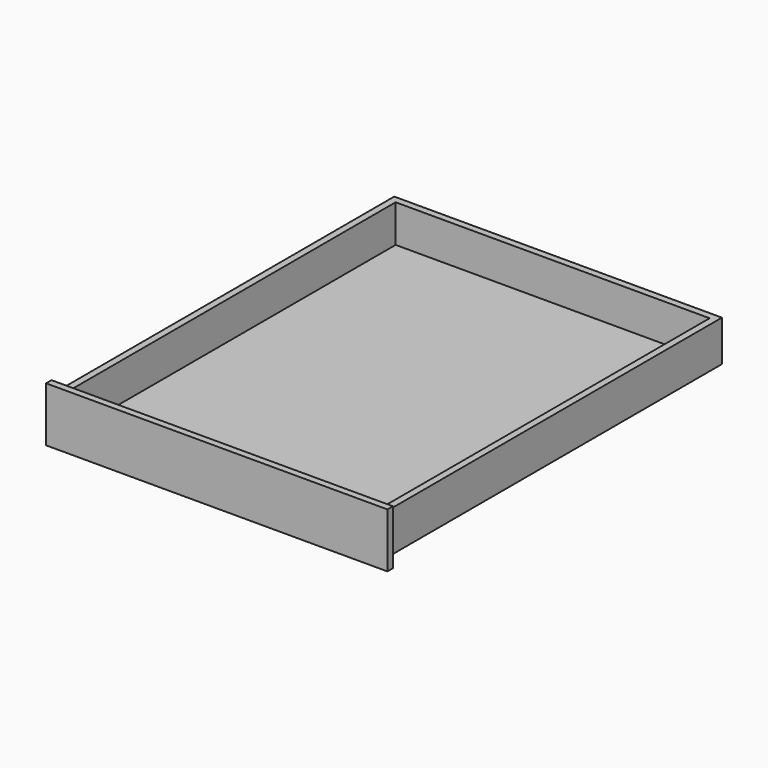
from build123d import *

# Parameters (mm, degrees)
F0_W     = 635
F0_H     = 101.6
F0_W_2   = 609.6
F0_H_2   = 76.2
F1_DEPTH = 12.7
F2_DEPTH = 781.05
F3_W     = 584.2
F3_H     = 755.65
F4_DEPTH = 69.85


with BuildPart() as f1:
    # F0 (on Front) → F1 (new body)
    with BuildSketch(Plane.XZ):
        Rectangle(F0_W, F0_H)
        Rectangle(F0_W_2, F0_H_2, mode=Mode.SUBTRACT)
        Rectangle(F0_W_2, F0_H_2)
    extrude(amount=F1_DEPTH)


with BuildPart() as f2:
    # F0 (on Front) → F2 (new body)
    with BuildSketch(Plane.XZ):
        Rectangle(F0_W_2, F0_H_2)
    extrude(amount=-F2_DEPTH)

    # F3 (on face) → F4 (cut)
    with BuildSketch(Plane.XY.offset(38.1)):
        with Locations((0, 390.525)):
            Rectangle(F3_W, F3_H)
    extrude(amount=-F4_DEPTH, mode=Mode.SUBTRACT)


solid = Compound([f1.part, f2.part])
